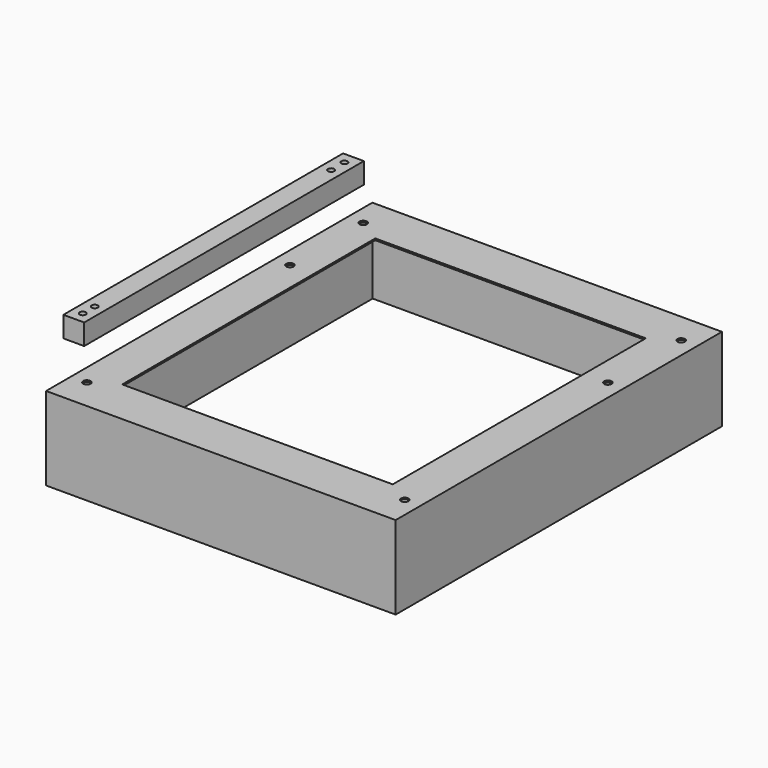
from build123d import *

# Parameters (mm, degrees)
F0_W      = 420
F0_H      = 490
F1_DEPTH  = 100
F2_T      = -2
F3_W      = 325
F3_H      = 380
F4_DEPTH  = 25
F5_R      = 4.5
F6_DEPTH  = 25
F8_W      = 25
F8_H      = 420
F9_DEPTH  = 25
F10_R     = 3.740286
F11_DEPTH = 25


with BuildPart() as f1:
    # F0 (on Top) → F1 (new body)
    with BuildSketch(Plane.XY):
        Rectangle(F0_W, F0_H)
    extrude(amount=-F1_DEPTH)

    # F2
    f2_openings = [f1.faces().sort_by_distance(p)[0] for p in [
        (0, 0, -100),
    ]]
    offset(amount=F2_T, openings=f2_openings)

    # F3 (on face) → F4 (cut)
    with BuildSketch(Plane.XY):
        Rectangle(F3_W, F3_H)
    extrude(amount=-F4_DEPTH, mode=Mode.SUBTRACT)

    # F5 (on Top) → F6 (cut)
    with BuildSketch(Plane.XY):
        with Locations((-191, -207.5)):
            Circle(F5_R)
        with Locations((-191, 97.5)):
            Circle(F5_R)
        with Locations((-191, 207.5)):
            Circle(F5_R)
        with Locations((191, 207.5)):
            Circle(F5_R)
        with Locations((191, -207.5)):
            Circle(F5_R)
        with Locations((191, 97.5)):
            Circle(F5_R)
    extrude(amount=-F6_DEPTH, mode=Mode.SUBTRACT)


with BuildPart() as f9:
    # F8 (on offset) → F9 (new body)
    with BuildSketch(Plane.XY.offset(25)):
        with Locations((-221.5, 21)):
            Rectangle(F8_W, F8_H)
    extrude(amount=F9_DEPTH)

    # F10 (on offset) → F11 (cut)
    with BuildSketch(Plane.XY.offset(25)):
        with Locations((-221.5, 217.5)):
            Circle(F10_R)
        with Locations((-221.5, 197.5)):
            Circle(F10_R)
        with Locations((-221.5, -175.5)):
            Circle(F10_R)
        with Locations((-221.5, -157.5)):
            Circle(F10_R)
    extrude(amount=F11_DEPTH, mode=Mode.SUBTRACT)


solid = Compound([f1.part, f9.part])
